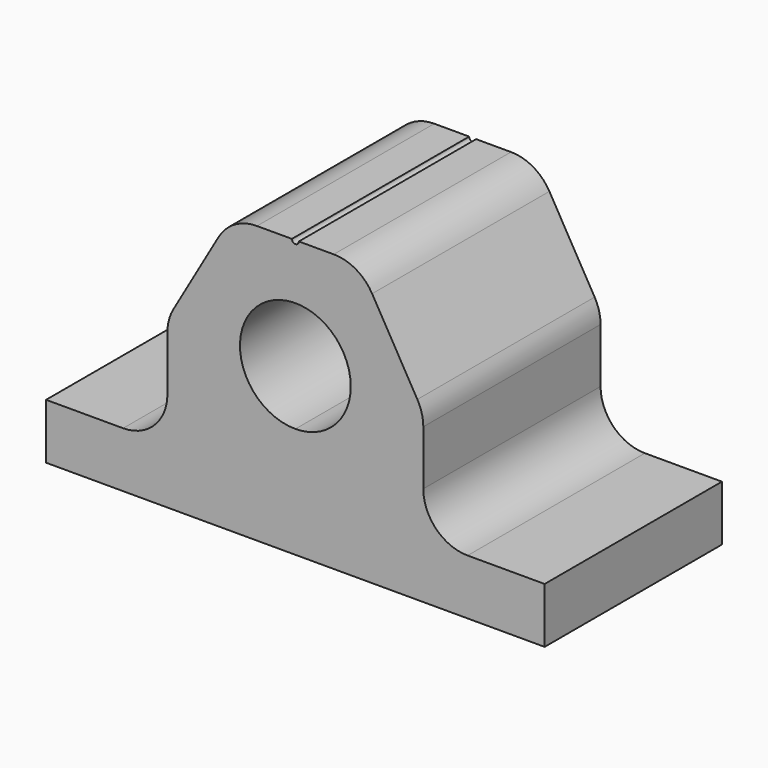
from build123d import *

# Parameters (mm, degrees)
F1_DEPTH = 25.4
F2_R     = 5.08


with BuildPart() as f1:
    # F0 (on Front) → F1 (new body)
    with BuildSketch(Plane.XZ):
        Polygon((-14.664697, 15.875), (-14.664697, 3.175), (-7.332348, 3.175), align=None)
        Polygon((14.664697, 15.875), (7.332348, 3.175), (14.664697, 3.175), align=None)
        Polygon((-14.664697, 3.175), (-28.575, 3.175), (-28.575, -3.175), (28.575, -3.175), (28.575, 3.175), (14.664697, 3.175), (7.332348, 3.175), (0, 3.175), (-7.332348, 3.175), align=None)
        with BuildLine():
            Line((-14.664697, 15.875), (-7.332348, 3.175))
            Line((-7.332348, 3.175), (0, 3.175))
            Line((0, 3.175), (7.332348, 3.175))
            Line((7.332348, 3.175), (14.664697, 15.875))
            Line((14.664697, 15.875), (7.332348, 28.575))
            Line((7.332348, 28.575), (0.39688, 28.575))
            ThreePointArc((0.39688, 28.575), (0, 28.17812), (-0.39688, 28.575))
            Line((-0.39688, 28.575), (-7.332348, 28.575))
            Line((-7.332348, 28.575), (-14.664697, 15.875))
        make_face()
        with BuildLine():
            ThreePointArc((6.35, 15.875), (4.490128, 11.384872), (0, 9.525))
            ThreePointArc((0, 9.525), (-4.490128, 20.365128), (6.35, 15.875))
        make_face(mode=Mode.SUBTRACT)
    extrude(amount=F1_DEPTH)

    # F2
    f2_edges = [f1.edges().sort_by_distance(p)[0] for p in [
        (-7.332348, -12.7, 28.575),
        (7.332348, -12.7, 28.575),
        (14.664697, -12.7, 15.875),
        (14.664697, -12.7, 3.175),
        (-14.664697, -12.7, 15.875),
        (-14.664697, -12.7, 3.175),
    ]]
    fillet(f2_edges, radius=F2_R)


solid = f1.part
